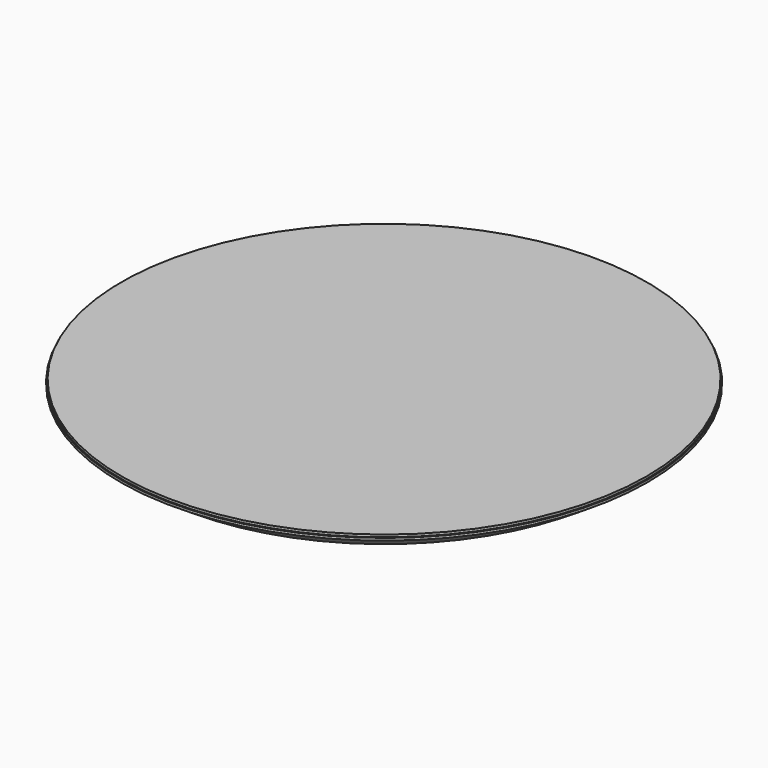
from build123d import *

# Parameters (mm, degrees)
F0_R     = 22.05
F1_DEPTH = 1.5
F2_SIZE2 = 1.3
F2_SIZE  = 2
F3_R     = 21.95
F4_DEPTH = 0.2


with BuildPart() as f1:
    # F0 (on Top) → F1 (new body)
    with BuildSketch(Plane.XY):
        Circle(F0_R)
    extrude(amount=-F1_DEPTH)

    # F2
    f2_edges = [f1.edges().sort_by_distance(p)[0] for p in [
        (-22.05, 0, -1.5),
    ]]
    f2_side = f1.faces().sort_by_distance((0, 0, -1.5))[0]
    chamfer(f2_edges, length=F2_SIZE, length2=F2_SIZE2, reference=f2_side)

    # F3 (on face) → F4 (join)
    with BuildSketch(Plane.XY):
        Circle(F3_R)
    extrude(amount=F4_DEPTH)


solid = f1.part
